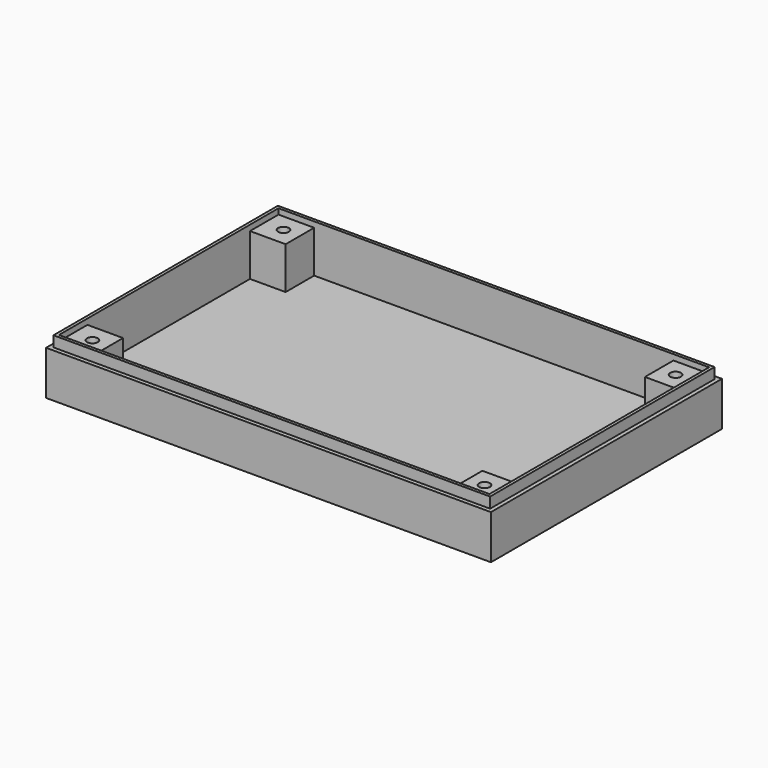
from build123d import *

# Parameters (mm, degrees)
F0_W      = 124.8
F0_H      = 81
F1_DEPTH  = 15.39
F2_W      = 120.8
F2_H      = 77
F3_DEPTH  = 13.39
F4_W      = 124.8
F4_H      = 3
F5_DEPTH  = 1.15
F6_W      = 124.8
F6_H      = 3
F7_DEPTH  = 1.15
F8_W      = 78.7
F8_H      = 3
F9_DEPTH  = 1.15
F10_W     = 78.7
F10_H     = 3
F11_DEPTH = 1.15
F12_W     = 10
F12_H     = 10
F13_DEPTH = 11.82
F14_W     = 10
F14_H     = 10
F15_DEPTH = 11.82
F16_W     = 10
F16_H     = 10
F17_DEPTH = 11.82
F18_W     = 10
F18_H     = 10
F19_DEPTH = 11.82
F20_R     = 1.5
F21_DEPTH = 11.82
F22_R     = 1.5
F23_DEPTH = 11.82
F24_R     = 1.5
F25_DEPTH = 11.82
F26_R     = 1.5
F27_DEPTH = 11.82


with BuildPart() as f1:
    # F0 (on Top) → F1 (new body)
    with BuildSketch(Plane.XY):
        Rectangle(F0_W, F0_H)
    extrude(amount=F1_DEPTH)

    # F2 (on face) → F3 (cut)
    with BuildSketch(Plane.XY.offset(15.39)):
        Rectangle(F2_W, F2_H)
    extrude(amount=-F3_DEPTH, mode=Mode.SUBTRACT)

    # F4 (on face) → F5 (cut)
    with BuildSketch(Plane(origin=(0, 40.5, 0), x_dir=(-1, 0, 0), z_dir=(0, 1, 0))):
        with Locations((0, 13.89)):
            Rectangle(F4_W, F4_H)
    extrude(amount=-F5_DEPTH, mode=Mode.SUBTRACT)

    # F6 (on face) → F7 (cut)
    with BuildSketch(Plane.XZ.offset(40.5)):
        with Locations((0, 13.89)):
            Rectangle(F6_W, F6_H)
    extrude(amount=-F7_DEPTH, mode=Mode.SUBTRACT)

    # F8 (on face) → F9 (cut)
    with BuildSketch(Plane(origin=(-62.4, 0, 0), x_dir=(0, -1, 0), z_dir=(-1, 0, 0))):
        with Locations((0, 13.89)):
            Rectangle(F8_W, F8_H)
    extrude(amount=-F9_DEPTH, mode=Mode.SUBTRACT)

    # F10 (on face) → F11 (cut)
    with BuildSketch(Plane.YZ.offset(62.4)):
        with Locations((0, 13.89)):
            Rectangle(F10_W, F10_H)
    extrude(amount=-F11_DEPTH, mode=Mode.SUBTRACT)

    # F12 (on face) → F13 (join)
    with BuildSketch(Plane.XY.offset(2)):
        with Locations((-55.4, 33.5)):
            Rectangle(F12_W, F12_H)
    extrude(amount=F13_DEPTH)

    # F14 (on face) → F15 (join)
    with BuildSketch(Plane.XY.offset(2)):
        with Locations((-55.4, -33.5)):
            Rectangle(F14_W, F14_H)
    extrude(amount=F15_DEPTH)

    # F16 (on face) → F17 (join)
    with BuildSketch(Plane.XY.offset(2)):
        with Locations((55.4, -33.5)):
            Rectangle(F16_W, F16_H)
    extrude(amount=F17_DEPTH)

    # F18 (on face) → F19 (join)
    with BuildSketch(Plane.XY.offset(2)):
        with Locations((55.4, 33.5)):
            Rectangle(F18_W, F18_H)
    extrude(amount=F19_DEPTH)

    # F20 (on face) → F21 (cut)
    with BuildSketch(Plane.XY.offset(13.82)):
        with Locations((-55, 33.5)):
            Circle(F20_R)
        with Locations((-55, 33.5)):
            Circle(F20_R)
    extrude(amount=-F21_DEPTH, mode=Mode.SUBTRACT)

    # F22 (on face) → F23 (cut)
    with BuildSketch(Plane.XY.offset(13.82)):
        with Locations((-55, -33.5)):
            Circle(F22_R)
    extrude(amount=-F23_DEPTH, mode=Mode.SUBTRACT)

    # F24 (on face) → F25 (cut)
    with BuildSketch(Plane.XY.offset(13.82)):
        with Locations((55, -33.5)):
            Circle(F24_R)
    extrude(amount=-F25_DEPTH, mode=Mode.SUBTRACT)

    # F26 (on face) → F27 (cut)
    with BuildSketch(Plane.XY.offset(13.82)):
        with Locations((55, 33.5)):
            Circle(F26_R)
    extrude(amount=-F27_DEPTH, mode=Mode.SUBTRACT)


solid = f1.part
